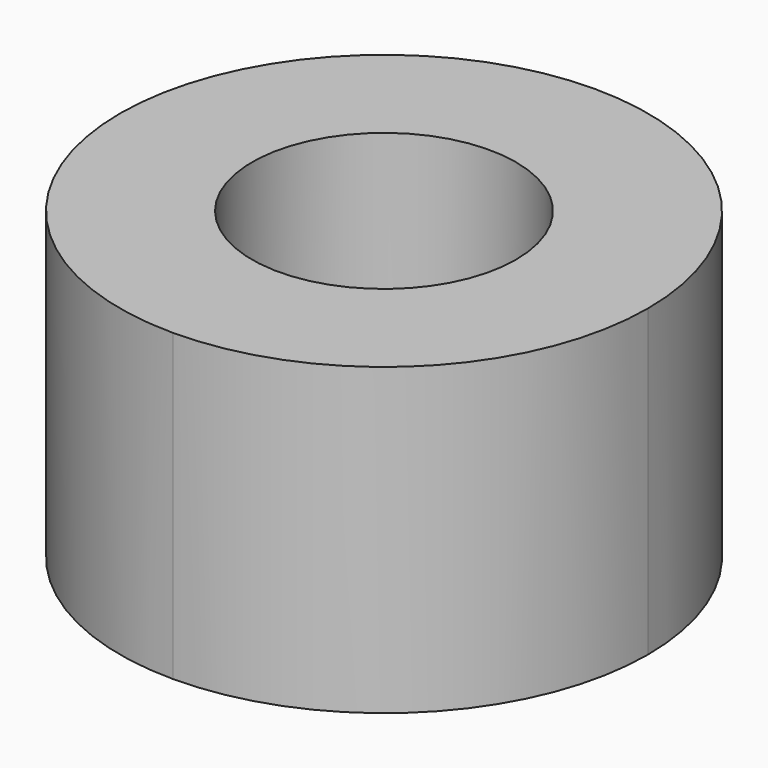
from build123d import *

# Parameters (mm, degrees)
F0_R     = 11
F1_DEPTH = 25.4


with BuildPart() as f1:
    # F0 (on Top) → F1 (new body)
    with BuildSketch(Plane.XY):
        with BuildLine():
            ThreePointArc((0, -22), (15.556349, -15.556349), (22, 0))
            ThreePointArc((22, 0), (15.556349, 15.556349), (0, 22))
            ThreePointArc((0, 22), (-22, 0), (0, -22))
        make_face()
        Circle(F0_R, mode=Mode.SUBTRACT)
    extrude(amount=F1_DEPTH)


solid = f1.part
